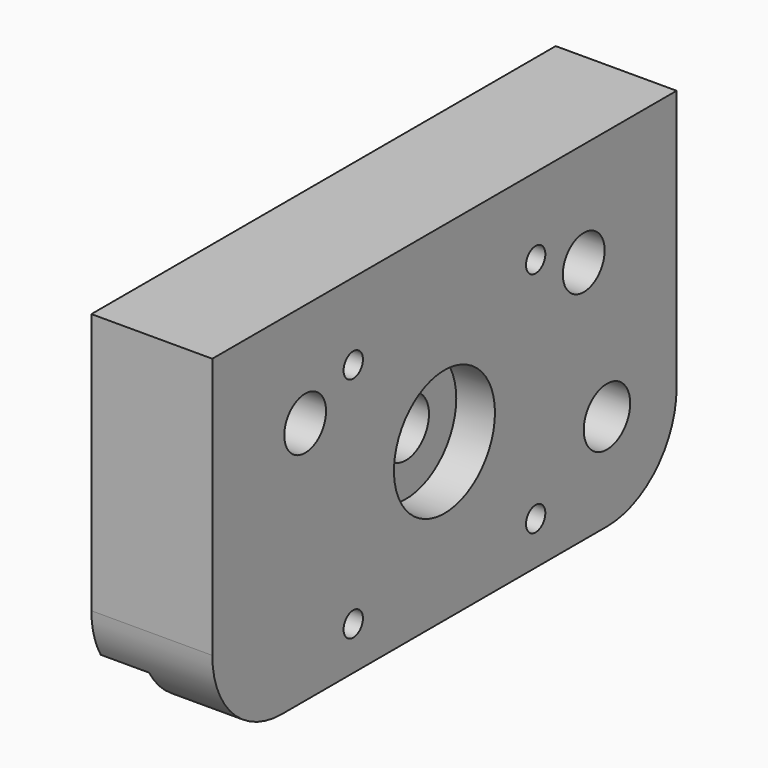
from build123d import *

# Parameters (mm, degrees)
SKETCH_R        = 3.5
SKETCH_R_2      = 6
PAD_DEPTH       = 25
SKETCH001_R     = 5.4
POCKET_DEPTH    = 15
SKETCH002_R     = 13.05
POCKET001_DEPTH = 10
SKETCH006_R     = 2.5
SKETCH006_R_2   = 6
POCKET002_DEPTH = 25
SKETCH005_R     = 4.5
POCKET003_DEPTH = 10
SKETCH007_R     = 13.05
POCKET004_DEPTH = 8
SKETCH009_W     = 120
SKETCH009_H     = 9
POCKET005_DEPTH = 10


with BuildPart() as part:
    # Sketch → Pad (new body)
    with BuildSketch(Plane.YZ):
        with BuildLine():
            Line((-60, -53.999958), (-60, 0))
            Line((-60, 0), (60, 0))
            Line((60, 0), (60, -53.999958))
            ThreePointArc((42.00001, -72), (54.72794, -66.727904), (60, -53.999958))
            Line((-42.00001, -72), (42.00001, -72))
            ThreePointArc((-60, -53.999958), (-54.72794, -66.727904), (-42.00001, -72))
        make_face()
        with Locations((-36, -21.5)):
            Circle(SKETCH_R, mode=Mode.SUBTRACT)
        with Locations((36, -21.5)):
            Circle(SKETCH_R, mode=Mode.SUBTRACT)
        with Locations((0, -39.5)):
            Circle(SKETCH_R_2, mode=Mode.SUBTRACT)
    extrude(amount=PAD_DEPTH)

    # Sketch001 → Pocket (cut)
    with BuildSketch(Plane.YZ.offset(25)):
        with Locations((-36, -21.5)):
            Circle(SKETCH001_R)
        with Locations((36, -21.5)):
            Circle(SKETCH001_R)
    extrude(amount=-POCKET_DEPTH, mode=Mode.SUBTRACT)

    # Sketch002 → Pocket001 (cut)
    with BuildSketch(Plane(origin=(0, 0, 0), x_dir=(0, 1, 0), z_dir=(-1, 0, 0))):
        with Locations((0, 39.5)):
            Circle(SKETCH002_R)
    extrude(amount=-POCKET001_DEPTH, mode=Mode.SUBTRACT)

    # Sketch006 → Pocket002 (cut)
    with BuildSketch(Plane.YZ.offset(25)):
        with Locations((-23.57, -15.93)):
            Circle(SKETCH006_R)
        with Locations((23.57, -15.93)):
            Circle(SKETCH006_R)
        with Locations((-23.57, -63.07)):
            Circle(SKETCH006_R)
        with Locations((23.57, -63.07)):
            Circle(SKETCH006_R)
        with Locations((42, -52)):
            Circle(SKETCH006_R_2)
    extrude(amount=-POCKET002_DEPTH, mode=Mode.SUBTRACT)

    # Sketch005 → Pocket003 (cut)
    with BuildSketch(Plane(origin=(0, 0, 0), x_dir=(0, 1, 0), z_dir=(-1, 0, 0))):
        with Locations((-23.57, 63.07)):
            Circle(SKETCH005_R)
        with Locations((23.57, 63.07)):
            Circle(SKETCH005_R)
        with Locations((-23.57, 15.93)):
            Circle(SKETCH005_R)
        with Locations((23.57, 15.93)):
            Circle(SKETCH005_R)
    extrude(amount=-POCKET003_DEPTH, mode=Mode.SUBTRACT)

    # Sketch007 → Pocket004 (cut)
    with BuildSketch(Plane.YZ.offset(25)):
        with Locations((0, -39.5)):
            Circle(SKETCH007_R)
    extrude(amount=-POCKET004_DEPTH, mode=Mode.SUBTRACT)

    # Sketch009 → Pocket005 (cut)
    with BuildSketch(Plane(origin=(0, 0, 0), x_dir=(0, 1, 0), z_dir=(-1, 0, 0))):
        with Locations((0, 67.5)):
            Rectangle(SKETCH009_W, SKETCH009_H)
    extrude(amount=-POCKET005_DEPTH, mode=Mode.SUBTRACT)


solid = part.part
